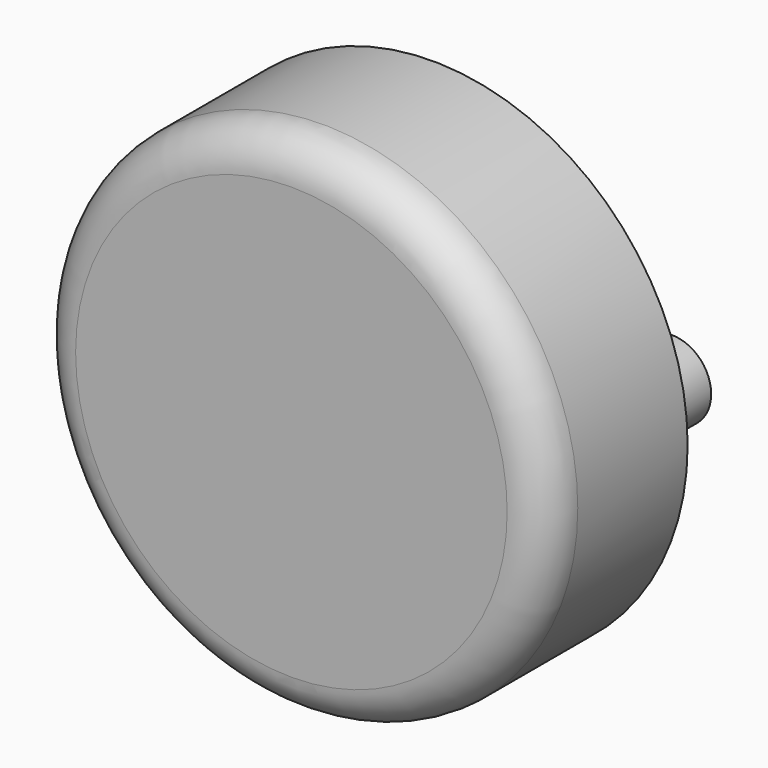
from build123d import *

# Parameters (mm, degrees)
F0_R     = 6.5
F1_DEPTH = 4.5
F2_R     = 2
F3_DEPTH = 3
F4_R     = 1
F5_DEPTH = 2
F6_R     = 1
F8_ANGLE = -90


with BuildPart() as f1:
    # F0 (on Top) → F1 (new body)
    with BuildSketch(Plane.XY):
        Circle(F0_R)
    extrude(amount=F1_DEPTH)

    # F2 (on face) → F3 (cut)
    with BuildSketch(Plane.XY.offset(4.5)):
        Circle(F2_R)
    extrude(amount=-F3_DEPTH, mode=Mode.SUBTRACT)

    # F4 (on face) → F5 (join)
    with BuildSketch(Plane.XY.offset(4.5)):
        with Locations((-4.5, 0)):
            Circle(F4_R)
        with Locations((4.5, 0)):
            Circle(F4_R)
    extrude(amount=F5_DEPTH)

    # F6
    f6_edges = [f1.edges().sort_by_distance(p)[0] for p in [
        (-6.5, 0, 0),
    ]]
    fillet(f6_edges, radius=F6_R)


with BuildPart() as f1_1:
    # F8: moved
    add(f1.part.rotate(Axis((4.46189, 0, 0), (1, 0, 0)), F8_ANGLE))


solid = f1_1.part
